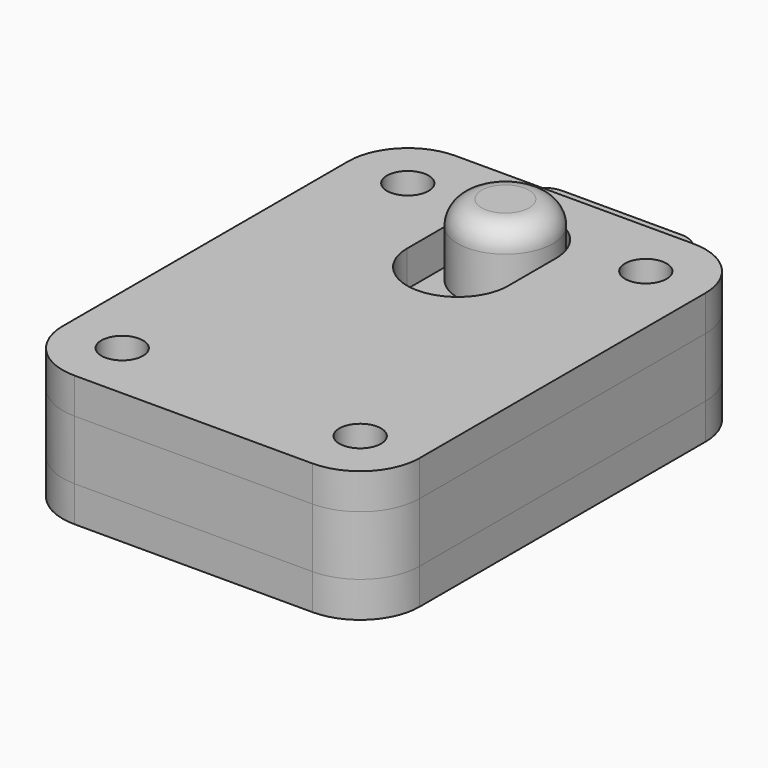
from build123d import *

# Parameters (mm, degrees)
F0_R      = 1.75
F1_DEPTH  = 3
F2_R      = 1.75
F3_DEPTH  = 5
F5_DEPTH  = 5
F6_R      = 1.75
F7_DEPTH  = 3
F9_DEPTH  = 3
F10_R     = 4
F11_DEPTH = 6
F12_R     = 2


with BuildPart() as f1:
    # F0 (on Top) → F1 (new body)
    with BuildSketch(Plane.XY):
        with BuildLine():
            Line((10, 20), (-10, 20))
            ThreePointArc((-10, 20), (-13.535534, 18.535534), (-15, 15))
            Line((-15, 15), (-15, -15))
            ThreePointArc((-15, -15), (-13.535534, -18.535534), (-10, -20))
            Line((-10, -20), (10, -20))
            ThreePointArc((10, -20), (13.535534, -18.535534), (15, -15))
            Line((15, -15), (15, 15))
            ThreePointArc((15, 15), (13.535534, 18.535534), (10, 20))
        make_face()
        with Locations((-10, -15)):
            Circle(F0_R, mode=Mode.SUBTRACT)
        with Locations((10, -15)):
            Circle(F0_R, mode=Mode.SUBTRACT)
        with Locations((-10, 15)):
            Circle(F0_R, mode=Mode.SUBTRACT)
        with Locations((10, 15)):
            Circle(F0_R, mode=Mode.SUBTRACT)
    extrude(amount=F1_DEPTH)


with BuildPart() as f3:
    # F2 (on face) → F3 (new body)
    with BuildSketch(Plane.XY.offset(3)):
        with BuildLine():
            Line((-7, 20), (-10, 20))
            ThreePointArc((-10, 20), (-13.535534, 18.535534), (-15, 15))
            Line((-15, 15), (-15, -15))
            ThreePointArc((-15, -15), (-13.535534, -18.535534), (-10, -20))
            Line((-10, -20), (-7, -20))
            Line((-7, -20), (7, -20))
            Line((7, -20), (10, -20))
            ThreePointArc((10, -20), (13.535534, -18.535534), (15, -15))
            Line((15, -15), (15, 15))
            ThreePointArc((15, 15), (13.535534, 18.535534), (10, 20))
            Line((10, 20), (7, 20))
            Line((7, 20), (7, 10))
            Line((7, 10), (10, 10))
            Line((10, 10), (10, -2))
            Line((10, -2), (7, -2))
            Line((7, -2), (7, -12))
            Line((7, -12), (3, -12))
            Line((3, -12), (3, -18))
            Line((3, -18), (-3, -18))
            Line((-3, -18), (-3, -12))
            Line((-3, -12), (-7, -12))
            Line((-7, -12), (-7, -2))
            Line((-7, -2), (-10, -2))
            Line((-10, -2), (-10, 10))
            Line((-10, 10), (-7, 10))
            Line((-7, 10), (-7, 20))
        make_face()
        with Locations((-10, -15)):
            Circle(F2_R, mode=Mode.SUBTRACT)
        with Locations((10, -15)):
            Circle(F2_R, mode=Mode.SUBTRACT)
        with Locations((-10, 15)):
            Circle(F2_R, mode=Mode.SUBTRACT)
        with Locations((10, 15)):
            Circle(F2_R, mode=Mode.SUBTRACT)
    extrude(amount=F3_DEPTH)


with BuildPart() as f5:
    # F4 (on face) → F5 (new body)
    with BuildSketch(Plane.XY.offset(3)):
        with BuildLine():
            Line((-7, 23), (-7, 20))
            Line((-7, 20), (7, 20))
            Line((7, 20), (7, 23))
            ThreePointArc((7, 23), (6.414214, 24.414214), (5, 25))
            Line((5, 25), (-5, 25))
            ThreePointArc((-5, 25), (-6.414214, 24.414214), (-7, 23))
        make_face()
        Polygon((-3, -7), (-3, 3), (3, 3), (3, -7), (7, -7), (7, 5), (10, 5), (10, 10), (7, 10), (7, 20), (-7, 20), (-7, 10), (-10, 10), (-10, 5), (-7, 5), (-7, -7), align=None)
    extrude(amount=F5_DEPTH)

    # F10 (on face) → F11 (join)
    with BuildSketch(Plane.XY.offset(8)):
        with Locations((0, 12.75)):
            Circle(F10_R)
    extrude(amount=F11_DEPTH)

    # F12
    f12_edges = [f5.edges().sort_by_distance(p)[0] for p in [
        (-4, 12.75, 14),
    ]]
    fillet(f12_edges, radius=F12_R)


with BuildPart() as f7:
    # F6 (on face) → F7 (new body)
    with BuildSketch(Plane.XY.offset(8)):
        with BuildLine():
            ThreePointArc((15, 15), (13.535534, 18.535534), (10, 20))
            Line((10, 20), (7, 20))
            Line((7, 20), (-7, 20))
            Line((-7, 20), (-10, 20))
            ThreePointArc((-10, 20), (-13.535534, 18.535534), (-15, 15))
            Line((-15, 15), (-15, -15))
            ThreePointArc((-15, -15), (-13.535534, -18.535534), (-10, -20))
            Line((-10, -20), (10, -20))
            ThreePointArc((10, -20), (13.535534, -18.535534), (15, -15))
            Line((15, -15), (15, 15))
        make_face()
        with Locations((-10, -15)):
            Circle(F6_R, mode=Mode.SUBTRACT)
        with Locations((10, -15)):
            Circle(F6_R, mode=Mode.SUBTRACT)
        with Locations((-10, 15)):
            Circle(F6_R, mode=Mode.SUBTRACT)
        with Locations((10, 15)):
            Circle(F6_R, mode=Mode.SUBTRACT)
    extrude(amount=F7_DEPTH)

    # F8 (on face) → F9 (cut)
    with BuildSketch(Plane.XY.offset(11)):
        with BuildLine():
            Line((4.25, 7.75), (4.25, 12.75))
            ThreePointArc((4.25, 12.75), (0, 17), (-4.25, 12.75))
            Line((-4.25, 12.75), (-4.25, 7.75))
            ThreePointArc((-4.25, 7.75), (0, 3.5), (4.25, 7.75))
        make_face()
    extrude(amount=-F9_DEPTH, mode=Mode.SUBTRACT)


solid = Compound([f1.part, f3.part, f5.part, f7.part])
